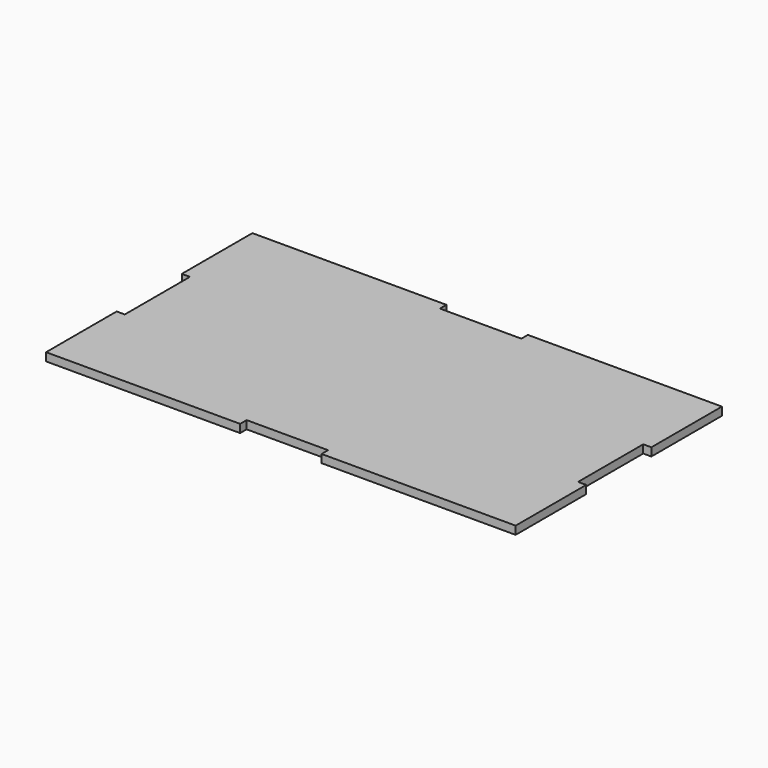
from build123d import *

# Parameters (mm, degrees)
F0_W     = 173
F0_H     = 95
F1_DEPTH = 3
F2_W     = 30
F2_H     = 3
F2_W_2   = 3
F2_H_2   = 30
F3_DEPTH = 25


with BuildPart() as f1:
    # F0 (on Top) → F1 (new body)
    with BuildSketch(Plane.XY):
        with Locations((86.5, 47.5)):
            Rectangle(F0_W, F0_H)
    extrude(amount=F1_DEPTH)

    # F2 (on face) → F3 (cut)
    with BuildSketch(Plane.XY.offset(3)):
        with Locations((86.5, 1.5)):
            Rectangle(F2_W, F2_H)
        with Locations((86.5, 93.5)):
            Rectangle(F2_W, F2_H)
        with Locations((1.5, 47.5)):
            Rectangle(F2_W_2, F2_H_2)
        with Locations((171.5, 47.5)):
            Rectangle(F2_W_2, F2_H_2)
    extrude(amount=-F3_DEPTH, mode=Mode.SUBTRACT)


solid = f1.part
